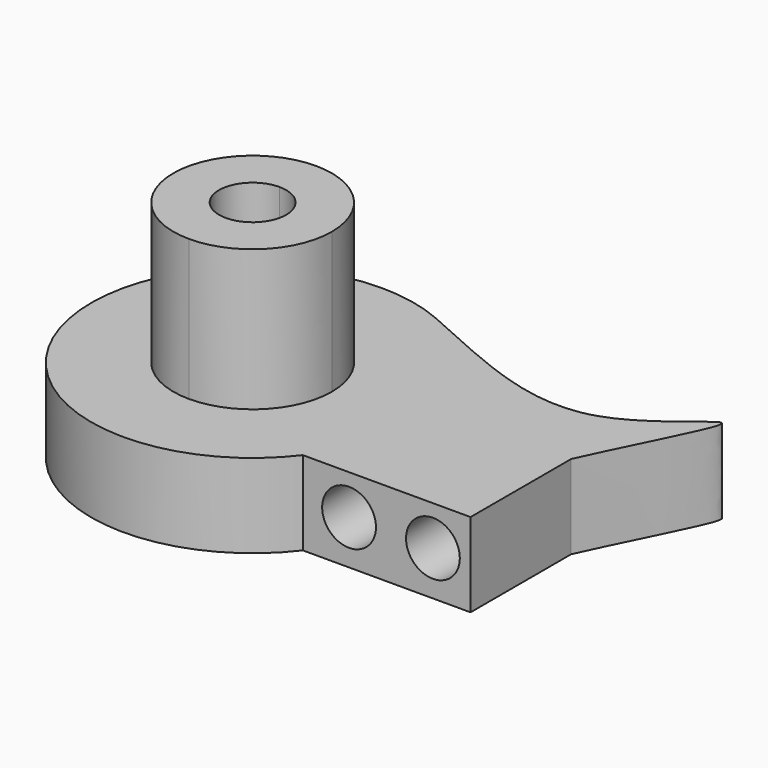
from build123d import *

# Parameters (mm, degrees)
F1_DEPTH = 25
F2_DEPTH = 67
F3_R     = 8.0170654264
F4_DEPTH = 77.2782947511


with BuildPart() as f1:
    # F0 (on Top) → F1 (new body)
    with BuildSketch(Plane.XY):
        with BuildLine():
            Line((-44.1382192087, 23.6139522209), (-44.1382192087, 29.1501541541))
            Line((-44.1382192087, 29.1501541541), (-5.8434393396, 29.1501541541))
            ThreePointArc((-5.8434393396, 29.1501541541), (-14.3812854567, 37.8252104568), (-24.8224606144, 44.080870254))
            ThreePointArc((-24.8224606144, 44.080870254), (-90.7261926511, -12.074037558), (-5.8434393396, -29.1501541541))
            Line((-5.8434393396, -29.1501541541), (-44.1382192087, -29.1501541541))
            Line((-44.1382192087, -29.1501541541), (-44.1382192087, -23.6139522209))
            ThreePointArc((-44.1382192087, -23.6139522209), (-67.7521714295, 0), (-44.1382192087, 23.6139522209))
        make_face()
        with BuildLine():
            Line((12.8327377156, 29.1501541541), (-5.8434393396, 29.1501541541))
            ThreePointArc((-5.8434393396, 29.1501541541), (1.4646310503, 15.3818627182), (3.9889212884, 0))
            ThreePointArc((3.9889212884, 0), (1.4646310503, -15.3818627182), (-5.8434393396, -29.1501541541))
            Line((-5.8434393396, -29.1501541541), (44.1382192087, -29.1501541541))
            Line((44.1382192087, -29.1501541541), (44.1382192087, 8.3397841081))
            Line((44.1382192087, 8.3397841081), (44.1382192087, 29.1501541541))
            Line((44.1382192087, 29.1501541541), (35.5350334868, 29.1501541541))
            add(Edge.make_bspline(
                [(12.8327377156, 29.1501541541), (20.8092349471, 27.208546417), (28.4195513087, 26.8060990258), (35.5350334868, 29.1501541541)],
                knots=[0.2413128636, 0.2413128636, 0.2413128636, 0.2413128636, 0.4033216227, 0.4033216227, 0.4033216227, 0.4033216227], degree=3))
        make_face()
        with BuildLine():
            add(Edge.make_bspline(
                [(35.5350334868, 29.1501541541), (47.6218028789, 33.1319017108), (70.7323680982, 58.9476120465), (52.2453960839, 26.1592553027), (44.1382192087, 8.3397841081)],
                knots=[0.4033216227, 0.4033216227, 0.4033216227, 0.4033216227, 0.6785190669, 1, 1, 1, 1], degree=3))
            Line((35.5350334868, 29.1501541541), (44.1382192087, 29.1501541541))
            Line((44.1382192087, 29.1501541541), (44.1382192087, 8.3397841081))
        make_face()
        with BuildLine():
            ThreePointArc((-24.8224606144, 44.080870254), (-14.3812854567, 37.8252104568), (-5.8434393396, 29.1501541541))
            Line((-5.8434393396, 29.1501541541), (12.8327377156, 29.1501541541))
            add(Edge.make_bspline(
                [(-24.8224606144, 44.080870254), (-11.7417461231, 38.3490432302), (0.9517048626, 32.0421886703), (12.8327377156, 29.1501541541)],
                knots=[0, 0, 0, 0, 0.2413128636, 0.2413128636, 0.2413128636, 0.2413128636], degree=3))
        make_face()
        with BuildLine():
            Line((-5.8434393396, 29.1501541541), (-44.1382192087, 29.1501541541))
            Line((-44.1382192087, 29.1501541541), (-44.1382192087, 23.6139522209))
            ThreePointArc((-44.1382192087, 23.6139522209), (-27.4406334627, 16.697585746), (-20.5242669878, 0))
            ThreePointArc((-20.5242669878, 0), (-27.4406334627, -16.697585746), (-44.1382192087, -23.6139522209))
            Line((-44.1382192087, -23.6139522209), (-44.1382192087, -29.1501541541))
            Line((-44.1382192087, -29.1501541541), (-5.8434393396, -29.1501541541))
            ThreePointArc((-5.8434393396, -29.1501541541), (1.4646310503, -15.3818627182), (3.9889212884, 0))
            ThreePointArc((3.9889212884, 0), (1.4646310503, 15.3818627182), (-5.8434393396, 29.1501541541))
        make_face()
    extrude(amount=F1_DEPTH)

    # F0 (on Top) → F2 (join)
    with BuildSketch(Plane.XY):
        with BuildLine():
            Line((-44.1382192087, 10), (-44.1382192087, 23.6139522209))
            ThreePointArc((-44.1382192087, 23.6139522209), (-67.7521714295, 0), (-44.1382192087, -23.6139522209))
            Line((-44.1382192087, -23.6139522209), (-44.1382192087, -10))
            ThreePointArc((-44.1382192087, -10), (-54.1382192087, 0), (-44.1382192087, 10))
        make_face()
        with BuildLine():
            ThreePointArc((-20.5242669878, 0), (-27.4406334627, 16.697585746), (-44.1382192087, 23.6139522209))
            Line((-44.1382192087, 23.6139522209), (-44.1382192087, 10))
            ThreePointArc((-44.1382192087, 10), (-37.0671513968, 7.0710678119), (-34.1382192087, 0))
            ThreePointArc((-34.1382192087, 0), (-37.0671513968, -7.0710678119), (-44.1382192087, -10))
            Line((-44.1382192087, -10), (-44.1382192087, -23.6139522209))
            ThreePointArc((-44.1382192087, -23.6139522209), (-27.4406334627, -16.697585746), (-20.5242669878, 0))
        make_face()
    extrude(amount=F2_DEPTH)

    # F3 (on face) → F4 (cut, through all)
    with BuildSketch(Plane.XZ.offset(29.1501541541)):
        with Locations((7.9276636243, 13.1636038423)):
            Circle(F3_R)
        with Locations((32.9276636243, 13.1636038423)):
            Circle(F3_R)
    extrude(amount=-F4_DEPTH, mode=Mode.SUBTRACT)


solid = f1.part
